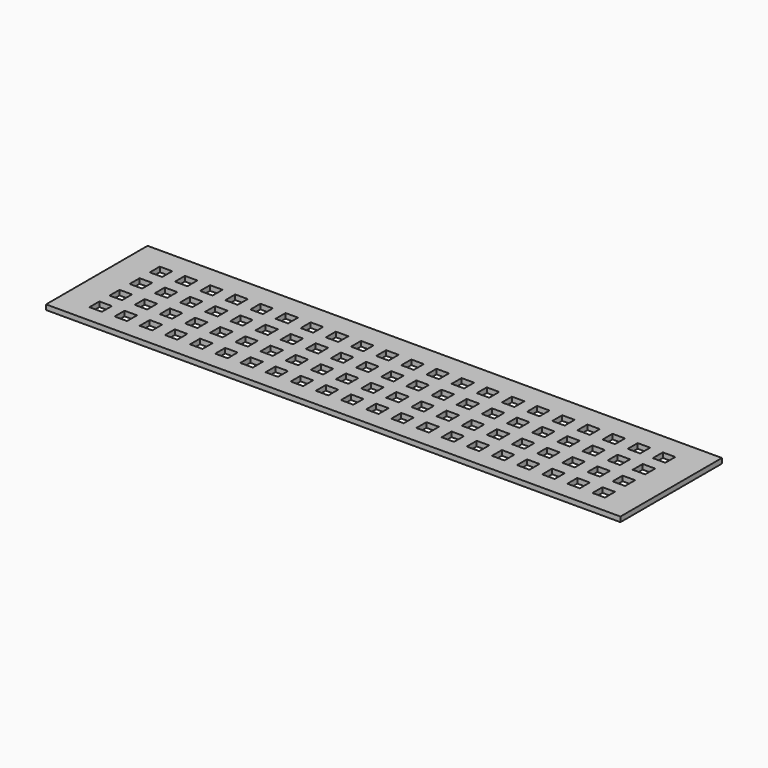
from build123d import *

# Parameters (mm, degrees)
BOX_W        = 115
BOX_H        = 25.4
BOX_DEPTH    = 1
SKETCH_W     = 2.5
SKETCH_H     = 2.5
POCKET_DEPTH = 1.001


with BuildPart() as part:
    # Box → Box (new body)
    with BuildSketch(Plane.XY):
        with Locations((57.5, 12.7)):
            Rectangle(BOX_W, BOX_H)
    extrude(amount=BOX_DEPTH)

    # Sketch (on Face6 of BaseFeature) → Pocket (cut, through all)
    with BuildSketch(Plane.XY.offset(1)):
        with Locations((7.135594, 19.846148)):
            Rectangle(SKETCH_W, SKETCH_H)
        with Locations((12.171345, 19.846716)):
            Rectangle(SKETCH_W, SKETCH_H)
        with Locations((17.207096, 19.847284)):
            Rectangle(SKETCH_W, SKETCH_H)
        with Locations((22.242847, 19.847852)):
            Rectangle(SKETCH_W, SKETCH_H)
        with Locations((27.278598, 19.84842)):
            Rectangle(SKETCH_W, SKETCH_H)
        with Locations((32.314349, 19.848988)):
            Rectangle(SKETCH_W, SKETCH_H)
        with Locations((37.3501, 19.849556)):
            Rectangle(SKETCH_W, SKETCH_H)
        with Locations((42.385851, 19.850124)):
            Rectangle(SKETCH_W, SKETCH_H)
        with Locations((47.421602, 19.850692)):
            Rectangle(SKETCH_W, SKETCH_H)
        with Locations((52.457353, 19.85126)):
            Rectangle(SKETCH_W, SKETCH_H)
        with Locations((57.493104, 19.851828)):
            Rectangle(SKETCH_W, SKETCH_H)
        with Locations((62.528855, 19.852396)):
            Rectangle(SKETCH_W, SKETCH_H)
        with Locations((67.564606, 19.852964)):
            Rectangle(SKETCH_W, SKETCH_H)
        with Locations((72.600357, 19.853532)):
            Rectangle(SKETCH_W, SKETCH_H)
        with Locations((77.636108, 19.8541)):
            Rectangle(SKETCH_W, SKETCH_H)
        with Locations((82.671859, 19.854668)):
            Rectangle(SKETCH_W, SKETCH_H)
        with Locations((87.70761, 19.855236)):
            Rectangle(SKETCH_W, SKETCH_H)
        with Locations((92.743361, 19.855804)):
            Rectangle(SKETCH_W, SKETCH_H)
        with Locations((97.779112, 19.856372)):
            Rectangle(SKETCH_W, SKETCH_H)
        with Locations((102.814863, 19.85694)):
            Rectangle(SKETCH_W, SKETCH_H)
        with Locations((107.850614, 19.857508)):
            Rectangle(SKETCH_W, SKETCH_H)
        with Locations((7.136162, 14.810397)):
            Rectangle(SKETCH_W, SKETCH_H)
        with Locations((12.171913, 14.810965)):
            Rectangle(SKETCH_W, SKETCH_H)
        with Locations((17.207664, 14.811533)):
            Rectangle(SKETCH_W, SKETCH_H)
        with Locations((22.243415, 14.812101)):
            Rectangle(SKETCH_W, SKETCH_H)
        with Locations((27.279166, 14.812669)):
            Rectangle(SKETCH_W, SKETCH_H)
        with Locations((32.314917, 14.813237)):
            Rectangle(SKETCH_W, SKETCH_H)
        with Locations((37.350668, 14.813805)):
            Rectangle(SKETCH_W, SKETCH_H)
        with Locations((42.386419, 14.814373)):
            Rectangle(SKETCH_W, SKETCH_H)
        with Locations((47.42217, 14.814941)):
            Rectangle(SKETCH_W, SKETCH_H)
        with Locations((52.457921, 14.815509)):
            Rectangle(SKETCH_W, SKETCH_H)
        with Locations((57.493672, 14.816077)):
            Rectangle(SKETCH_W, SKETCH_H)
        with Locations((62.529423, 14.816645)):
            Rectangle(SKETCH_W, SKETCH_H)
        with Locations((67.565174, 14.817213)):
            Rectangle(SKETCH_W, SKETCH_H)
        with Locations((72.600925, 14.817781)):
            Rectangle(SKETCH_W, SKETCH_H)
        with Locations((77.636676, 14.818349)):
            Rectangle(SKETCH_W, SKETCH_H)
        with Locations((82.672427, 14.818917)):
            Rectangle(SKETCH_W, SKETCH_H)
        with Locations((87.708178, 14.819485)):
            Rectangle(SKETCH_W, SKETCH_H)
        with Locations((92.743929, 14.820053)):
            Rectangle(SKETCH_W, SKETCH_H)
        with Locations((97.77968, 14.820621)):
            Rectangle(SKETCH_W, SKETCH_H)
        with Locations((102.815431, 14.821189)):
            Rectangle(SKETCH_W, SKETCH_H)
        with Locations((107.851182, 14.821757)):
            Rectangle(SKETCH_W, SKETCH_H)
        with Locations((7.13673, 9.774646)):
            Rectangle(SKETCH_W, SKETCH_H)
        with Locations((12.172481, 9.775214)):
            Rectangle(SKETCH_W, SKETCH_H)
        with Locations((17.208232, 9.775782)):
            Rectangle(SKETCH_W, SKETCH_H)
        with Locations((22.243983, 9.77635)):
            Rectangle(SKETCH_W, SKETCH_H)
        with Locations((27.279734, 9.776918)):
            Rectangle(SKETCH_W, SKETCH_H)
        with Locations((32.315485, 9.777486)):
            Rectangle(SKETCH_W, SKETCH_H)
        with Locations((37.351236, 9.778054)):
            Rectangle(SKETCH_W, SKETCH_H)
        with Locations((42.386987, 9.778622)):
            Rectangle(SKETCH_W, SKETCH_H)
        with Locations((47.422738, 9.77919)):
            Rectangle(SKETCH_W, SKETCH_H)
        with Locations((52.458489, 9.779758)):
            Rectangle(SKETCH_W, SKETCH_H)
        with Locations((57.49424, 9.780326)):
            Rectangle(SKETCH_W, SKETCH_H)
        with Locations((62.529991, 9.780894)):
            Rectangle(SKETCH_W, SKETCH_H)
        with Locations((67.565742, 9.781462)):
            Rectangle(SKETCH_W, SKETCH_H)
        with Locations((72.601493, 9.78203)):
            Rectangle(SKETCH_W, SKETCH_H)
        with Locations((77.637244, 9.782598)):
            Rectangle(SKETCH_W, SKETCH_H)
        with Locations((82.672995, 9.783166)):
            Rectangle(SKETCH_W, SKETCH_H)
        with Locations((87.708746, 9.783734)):
            Rectangle(SKETCH_W, SKETCH_H)
        with Locations((92.744497, 9.784302)):
            Rectangle(SKETCH_W, SKETCH_H)
        with Locations((97.780248, 9.78487)):
            Rectangle(SKETCH_W, SKETCH_H)
        with Locations((102.815999, 9.785438)):
            Rectangle(SKETCH_W, SKETCH_H)
        with Locations((107.85175, 9.786006)):
            Rectangle(SKETCH_W, SKETCH_H)
        with Locations((7.137298, 4.738895)):
            Rectangle(SKETCH_W, SKETCH_H)
        with Locations((12.173049, 4.739463)):
            Rectangle(SKETCH_W, SKETCH_H)
        with Locations((17.2088, 4.740031)):
            Rectangle(SKETCH_W, SKETCH_H)
        with Locations((22.244551, 4.740599)):
            Rectangle(SKETCH_W, SKETCH_H)
        with Locations((27.280302, 4.741167)):
            Rectangle(SKETCH_W, SKETCH_H)
        with Locations((32.316053, 4.741735)):
            Rectangle(SKETCH_W, SKETCH_H)
        with Locations((37.351804, 4.742303)):
            Rectangle(SKETCH_W, SKETCH_H)
        with Locations((42.387555, 4.742871)):
            Rectangle(SKETCH_W, SKETCH_H)
        with Locations((47.423306, 4.743439)):
            Rectangle(SKETCH_W, SKETCH_H)
        with Locations((52.459057, 4.744007)):
            Rectangle(SKETCH_W, SKETCH_H)
        with Locations((57.494808, 4.744575)):
            Rectangle(SKETCH_W, SKETCH_H)
        with Locations((62.530559, 4.745143)):
            Rectangle(SKETCH_W, SKETCH_H)
        with Locations((67.56631, 4.745711)):
            Rectangle(SKETCH_W, SKETCH_H)
        with Locations((72.602061, 4.746279)):
            Rectangle(SKETCH_W, SKETCH_H)
        with Locations((77.637812, 4.746847)):
            Rectangle(SKETCH_W, SKETCH_H)
        with Locations((82.673563, 4.747415)):
            Rectangle(SKETCH_W, SKETCH_H)
        with Locations((87.709314, 4.747983)):
            Rectangle(SKETCH_W, SKETCH_H)
        with Locations((92.745065, 4.748551)):
            Rectangle(SKETCH_W, SKETCH_H)
        with Locations((97.780816, 4.749119)):
            Rectangle(SKETCH_W, SKETCH_H)
        with Locations((102.816567, 4.749687)):
            Rectangle(SKETCH_W, SKETCH_H)
        with Locations((107.852318, 4.750255)):
            Rectangle(SKETCH_W, SKETCH_H)
    extrude(amount=-POCKET_DEPTH, mode=Mode.SUBTRACT)


solid = part.part
